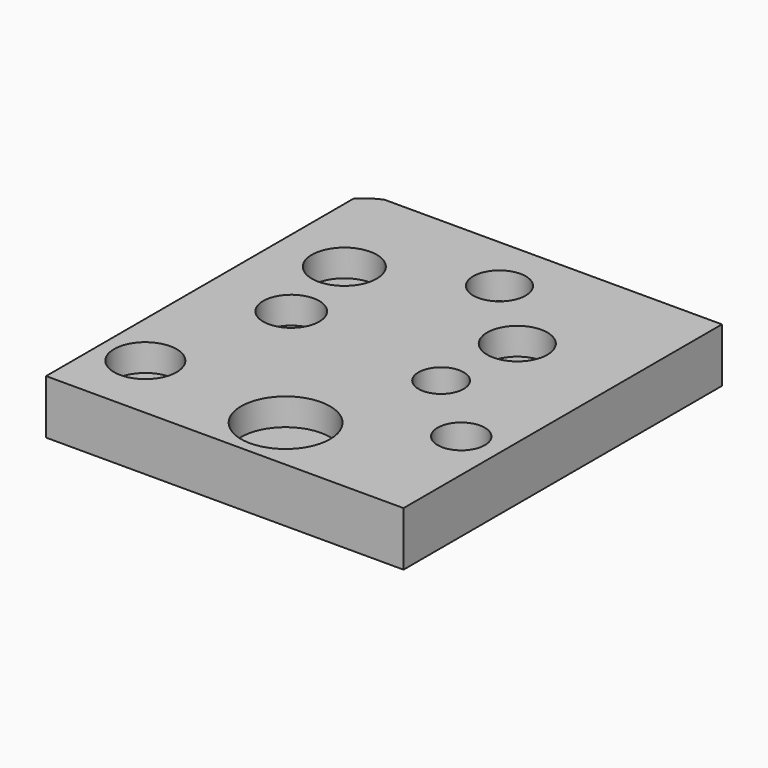
from build123d import *

# Parameters (mm, degrees)
F0_R     = 9.227752
F0_R_2   = 10.316944
F1_DEPTH = 12.7
F2_R     = 7.603738
F2_R_2   = 5.536052
F2_R_3   = 7.326338
F2_R_4   = 7.055645
F2_R_5   = 10.428743
F2_R_6   = 6.147535
F2_R_7   = 6.569287
F2_R_8   = 5.291244
F3_DEPTH = 6.35


with BuildPart() as f1:
    # F0 (on Top) → F1 (new body)
    with BuildSketch(Plane.XY):
        with BuildLine():
            Line((12.50172, 39.573293), (-25.80679, 39.573293))
            ThreePointArc((-25.80679, 39.573293), (-19.351501, 17.287133), (-42.451348, 15.109803))
            Line((-42.451348, 15.109803), (-42.451348, -53.675774))
            Line((-42.451348, -53.675774), (-26.046417, -53.675774))
            ThreePointArc((-26.046417, -53.675774), (-15.397607, -31.799477), (-4.748798, -53.675774))
            Line((-4.748798, -53.675774), (16.548831, -53.675774))
            Line((16.548831, -53.675774), (41.300125, -53.675774))
            Line((41.300125, -53.675774), (41.300125, -43.841226))
            ThreePointArc((41.300125, -43.841226), (32.662888, -31.226924), (41.300125, -18.612622))
            Line((41.300125, -18.612622), (41.300125, 39.573293))
            Line((41.300125, 39.573293), (31.532556, 39.573293))
            ThreePointArc((31.532556, 39.573293), (22.017138, 5.274796), (12.50172, 39.573293))
        make_face()
        with BuildLine():
            ThreePointArc((25.758617, -44.465989), (23.061133, -50.978291), (16.548831, -53.675774))
            ThreePointArc((16.548831, -53.675774), (10.036529, -37.953687), (25.758617, -44.465989))
        make_face(mode=Mode.SUBTRACT)
        with Locations((20.865915, -13.382968)):
            Circle(F0_R, mode=Mode.SUBTRACT)
        with Locations((-28.06106, -5.612212)):
            Circle(F0_R_2, mode=Mode.SUBTRACT)
        with BuildLine():
            Line((31.532556, 39.573293), (12.50172, 39.573293))
            ThreePointArc((12.50172, 39.573293), (22.017138, 5.274796), (31.532556, 39.573293))
        make_face()
        with BuildLine():
            Line((-25.80679, 39.573293), (-37.798287, 39.573293))
            ThreePointArc((-37.798287, 39.573293), (-40.274021, 38.209652), (-42.451348, 36.407427))
            Line((-42.451348, 36.407427), (-42.451348, 15.109803))
            ThreePointArc((-42.451348, 15.109803), (-19.351501, 17.287133), (-25.80679, 39.573293))
        make_face()
        with BuildLine():
            ThreePointArc((-4.748798, -53.675774), (-15.397607, -31.799477), (-26.046417, -53.675774))
            Line((-26.046417, -53.675774), (-4.748798, -53.675774))
        make_face()
        with Locations((-28.06106, -5.612212)):
            Circle(F0_R_2)
        with Locations((20.865915, -13.382968)):
            Circle(F0_R)
        with BuildLine():
            ThreePointArc((25.758617, -44.465989), (10.036529, -37.953687), (16.548831, -53.675774))
            ThreePointArc((16.548831, -53.675774), (23.061133, -50.978291), (25.758617, -44.465989))
        make_face()
        with BuildLine():
            Line((41.300125, -43.841226), (41.300125, -18.612622))
            ThreePointArc((41.300125, -18.612622), (32.662888, -31.226924), (41.300125, -43.841226))
        make_face()
    extrude(amount=F1_DEPTH)

    # F2 (on face) → F3 (cut)
    with BuildSketch(Plane.XY.offset(12.7)):
        with Locations((-26.909837, 14.246385)):
            Circle(F2_R)
        with Locations((31.802539, -24.895199)):
            Circle(F2_R_2)
        with Locations((-32.090344, -37.558652)):
            Circle(F2_R_3)
        with Locations((16.836636, 10.217104)):
            Circle(F2_R_4)
        with Locations((3.309769, -40.724512)):
            Circle(F2_R_5)
        with Locations((0, 26.046421)):
            Circle(F2_R_6)
        with Locations((-23.456169, -5.612212)):
            Circle(F2_R_7)
        with Locations((15.109802, -9.929299)):
            Circle(F2_R_8)
    extrude(amount=-F3_DEPTH, mode=Mode.SUBTRACT)


solid = f1.part
